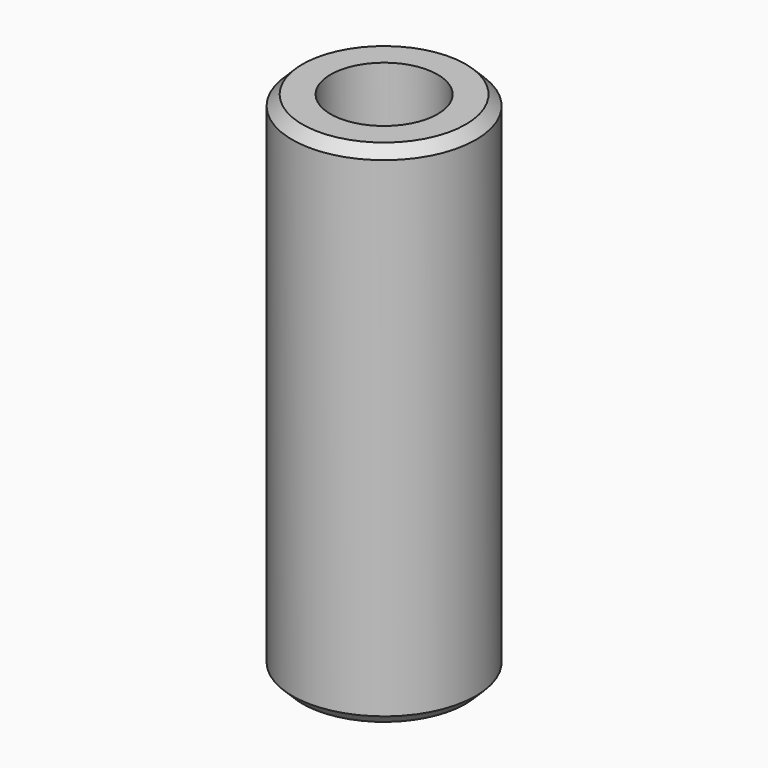
from build123d import *

# Parameters (mm, degrees)
F2_R     = 9
F3_DEPTH = 50
F4_R     = 5.25
F5_DEPTH = 7
F6_R     = 3.885
F7_DEPTH = 8.5
F10_SIZE = 1


with BuildPart() as f3:
    # F2 (on Top) → F3 (new body)
    with BuildSketch(Plane.XY):
        Circle(F2_R)
    extrude(amount=F3_DEPTH)

    # F4 (on face) → F5 (cut)
    with BuildSketch(Plane.XY.offset(50)):
        Circle(F4_R)
    extrude(amount=-F5_DEPTH, mode=Mode.SUBTRACT)

    # F6 (on face) → F7 (cut)
    with BuildSketch(Plane.XY.offset(43)):
        Circle(F6_R)
    extrude(amount=-F7_DEPTH, mode=Mode.SUBTRACT)

    # F8 (on Front) → F9 (revolve, cut)
    with BuildSketch(Plane.XZ):
        with BuildLine():
            ThreePointArc((0, 36.985), (-3.885, 33.1), (0, 29.215))
            Line((0, 29.215), (0, 36.985))
        make_face()
    revolve(axis=Axis((0, 0, 33.1), (0, 0, 1)), mode=Mode.SUBTRACT)

    # F10
    f10_edges = [f3.edges().sort_by_distance(p)[0] for p in [
        (-3.885, 0, 43),
        (-9, 0, 50),
        (-9, 0, 0),
    ]]
    chamfer(f10_edges, length=F10_SIZE)


solid = f3.part
